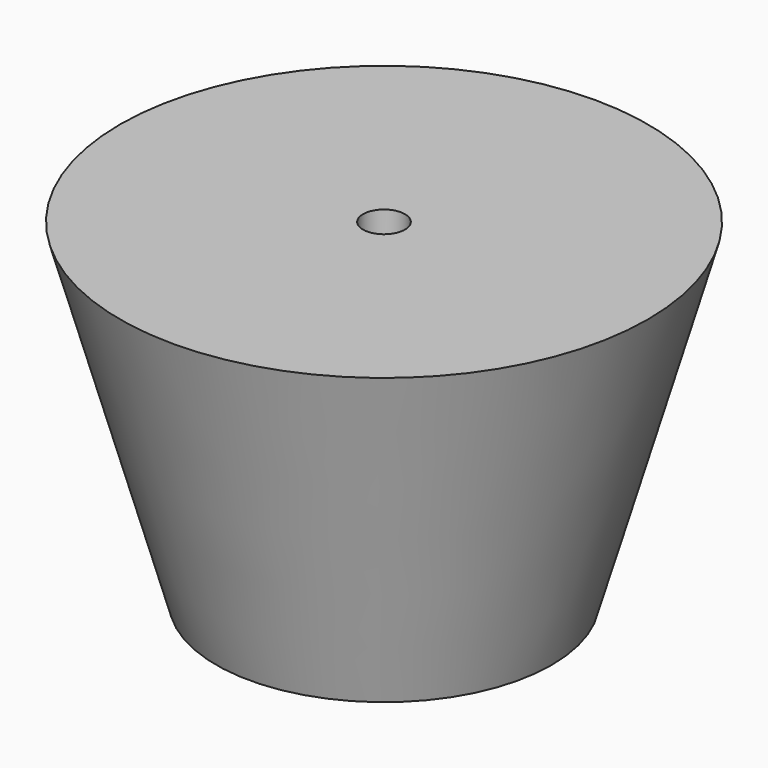
from build123d import *

# Parameters (mm, degrees)
F0_R     = 25.4
F1_DEPTH = 50.8
F1_TAPER = -16
F3_D     = 6.35
F3_DEPTH = 12.7
F3_TIP   = 1.9077324654


with BuildPart() as f1:
    # F0 (on Top) → F1 (new body)
    with BuildSketch(Plane.XY):
        Circle(F0_R)
    extrude(amount=F1_DEPTH, taper=F1_TAPER)

    # F3
    with Locations(Plane.XY.offset(50.8)):
        with Locations((0, 0)):
            Hole(F3_D / 2, depth=F3_DEPTH)
            with Locations((0, 0, -(F3_DEPTH + F3_TIP / 2))):  # 118° drill point
                Cone(0, F3_D / 2, F3_TIP, mode=Mode.SUBTRACT)


solid = f1.part
